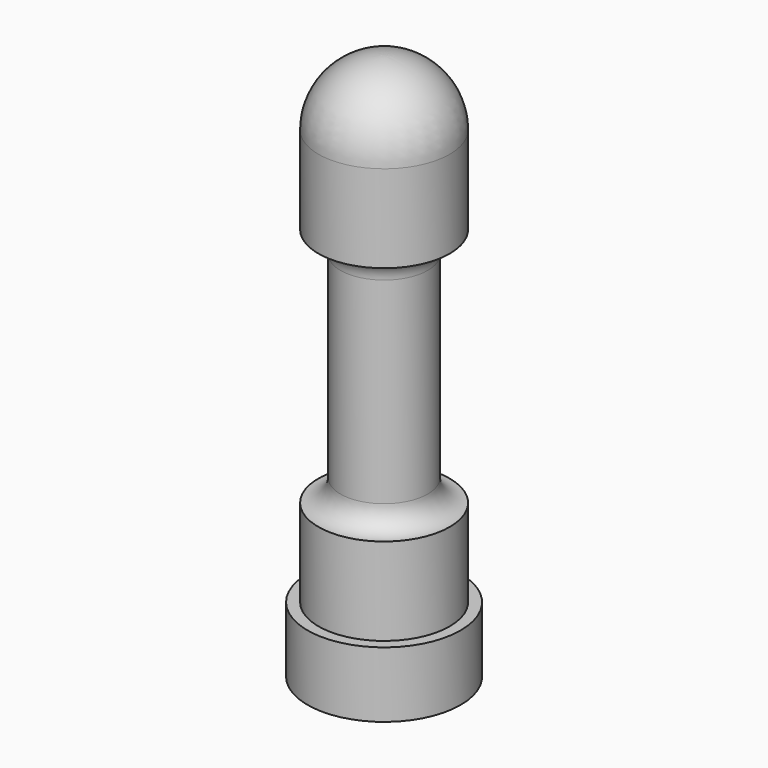
from build123d import *


with BuildPart() as f1:
    # F0 (on Front) → F1 (revolve)
    with BuildSketch(Plane.XZ):
        with BuildLine():
            Line((0, 25), (0, 0))
            Line((0, 0), (3.5, 0))
            Line((3.5, 0), (3.5, 3))
            Line((3.5, 3), (3, 3))
            Line((3, 3), (3, 7))
            ThreePointArc((3, 7), (2.292893, 7.292893), (2, 8))
            Line((2, 8), (2, 17))
            ThreePointArc((2, 17), (2.292893, 17.707107), (3, 18))
            Line((3, 18), (3, 22))
            ThreePointArc((3, 22), (2.12132, 24.12132), (0, 25))
        make_face()
    revolve(axis=Axis((0, 0, 12.5), (0, 0, -1)))

    # F2 (on Front) → F3 (revolve, cut)
    with BuildSketch(Plane.XZ):
        with BuildLine():
            Line((0, 1.5), (0, 0))
            Line((0, 0), (1.5, 0))
            ThreePointArc((1.5, 0), (1.06066, 1.06066), (0, 1.5))
        make_face()
    revolve(axis=Axis((0, 0, 0.75), (0, 0, -1)), mode=Mode.SUBTRACT)


solid = f1.part
